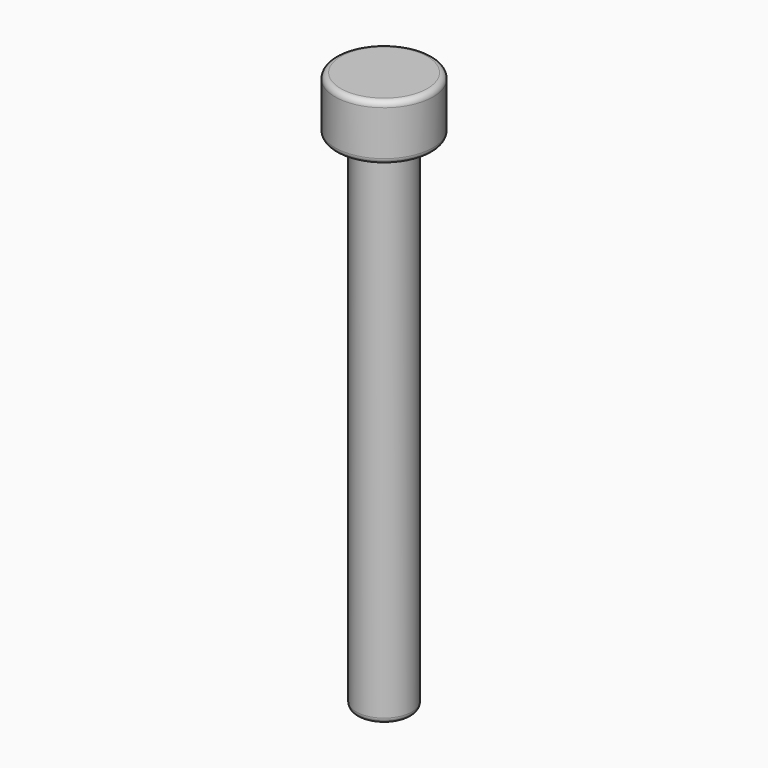
from build123d import *

# Parameters (mm, degrees)
F0_R     = 25.4
F1_DEPTH = 508
F0_R_2   = 44.45
F2_DEPTH = 50.8
F3_R     = 5.08


with BuildPart() as f1:
    # F0 (on Top) → F1 (new body)
    with BuildSketch(Plane.XY):
        Circle(F0_R)
    extrude(amount=-F1_DEPTH)

    # F0 (on Top) → F2 (join)
    with BuildSketch(Plane.XY):
        Circle(F0_R_2)
        Circle(F0_R, mode=Mode.SUBTRACT)
    extrude(amount=-F2_DEPTH)

    # F3
    f3_edges = [f1.edges().sort_by_distance(p)[0] for p in [
        (-44.45, 0, -50.8),
        (-44.45, 0, 0),
        (-25.4, 0, -508),
    ]]
    fillet(f3_edges, radius=F3_R)


solid = f1.part
